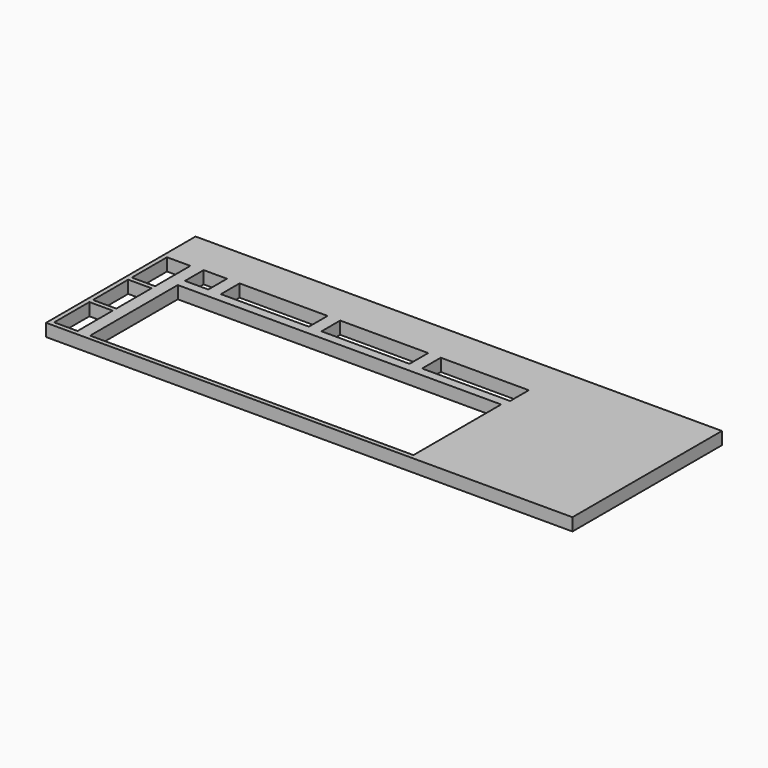
from build123d import *

# Parameters (mm, degrees)
F0_W     = 465.1375
F0_H     = 165.1
F1_DEPTH = 11.1125
F2_W     = 20.6375
F2_H     = 38.89375
F2_W_2   = 285.75
F2_H_2   = 96.8375
F2_W_3   = 77.7875
F2_H_3   = 20.6375
F3_DEPTH = 11.1135


with BuildPart() as f1:
    # F0 (on Top) → F1 (new body)
    with BuildSketch(Plane.XY):
        with Locations((232.56875, 82.55)):
            Rectangle(F0_W, F0_H)
    extrude(amount=F1_DEPTH)

    # F2 (on face) → F3 (cut, through all)
    with BuildSketch(Plane.XY.offset(11.1125)):
        with Locations((14.2875, 23.415625)):
            Rectangle(F2_W, F2_H)
        with Locations((14.2875, 66.278125)):
            Rectangle(F2_W, F2_H)
        with Locations((14.2875, 109.140625)):
            Rectangle(F2_W, F2_H)
        with Locations((178.59375, 52.3875)):
            Rectangle(F2_W_2, F2_H_2)
        with Locations((106.3625, 119.0625)):
            Rectangle(F2_W_3, F2_H_3)
        with Locations((195.2625, 119.0625)):
            Rectangle(F2_W_3, F2_H_3)
        with Locations((284.1625, 119.0625)):
            Rectangle(F2_W_3, F2_H_3)
        with Locations((46.0375, 119.0625)):
            Rectangle(F2_W, F2_H_3)
    extrude(amount=-F3_DEPTH, mode=Mode.SUBTRACT)


solid = f1.part
